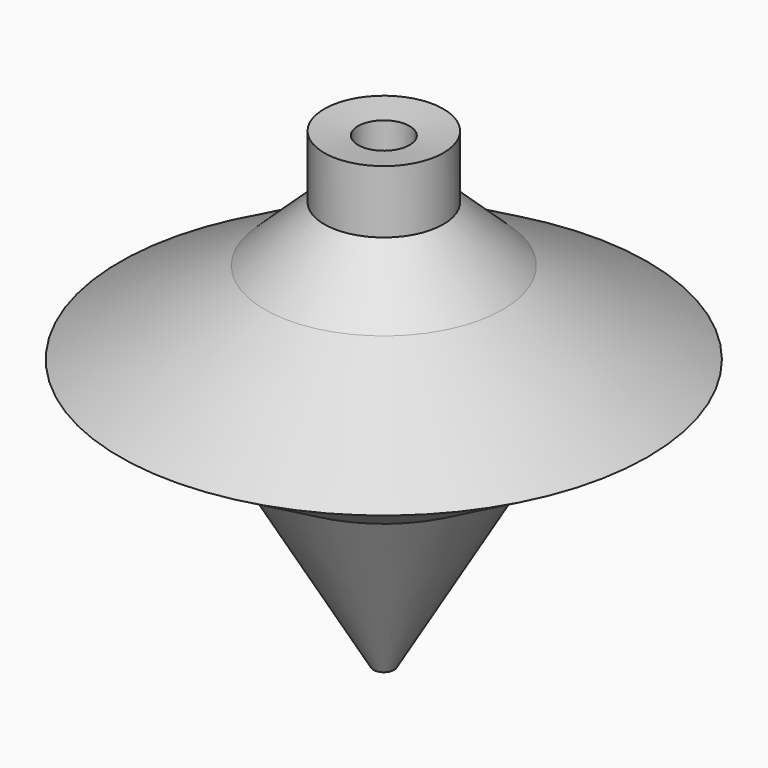
from build123d import *

# Parameters (mm, degrees)
F2_W     = 1.7657947028
F2_H     = 4.3581165373
F4_DEPTH = 6.35
F5_W     = 0.7065157406
F5_H     = 3.5888564307
F7_DEPTH = 13.97


with BuildPart() as f1:
    # F0 (on Front) → F1 (revolve)
    with BuildSketch(Plane.XZ):
        Polygon((0, 33.02), (0, 0), (8.1676599603, 14.0551366686), (18.0931817596, 19.7233742263), (8.1676599603, 25.391611784), (4.0838299801, 29.205805892), align=None)
        Polygon((4.0838299801, 33.5109336315), (0, 33.02), (4.0838299801, 29.205805892), align=None)
    revolve(axis=Axis((0, 0, 16.51), (0, 0, -1)))

    # F2 (on Front) → F3 (revolve)
    with BuildSketch(Plane.XZ):
        with Locations((0.8828973514, 31.3695054501)):
            Rectangle(F2_W, F2_H)
    revolve(axis=Axis((0, 0, 31.3695054501), (0, 0, 1)))

    # F4 (cut, symmetric): a face of the model
    f4_faces = [f1.faces().sort_by_distance(p)[0] for p in [
        (0, 0, 33.5485637188),
    ]]
    extrude(f4_faces, amount=F4_DEPTH, both=True, mode=Mode.SUBTRACT)

    # F5 (on Front) → F6 (revolve)
    with BuildSketch(Plane.XZ):
        with Locations((0.3532578703, 1.7944282154)):
            Rectangle(F5_W, F5_H)
    revolve(axis=Axis((0, 0, 1.7944282154), (0, 0, -1)))

    # F7 (cut): a face of the model
    f7_faces = [f1.faces().sort_by_distance(p)[0] for p in [
        (0, 0, 0),
    ]]
    extrude(f7_faces, amount=-F7_DEPTH, mode=Mode.SUBTRACT)


solid = f1.part
